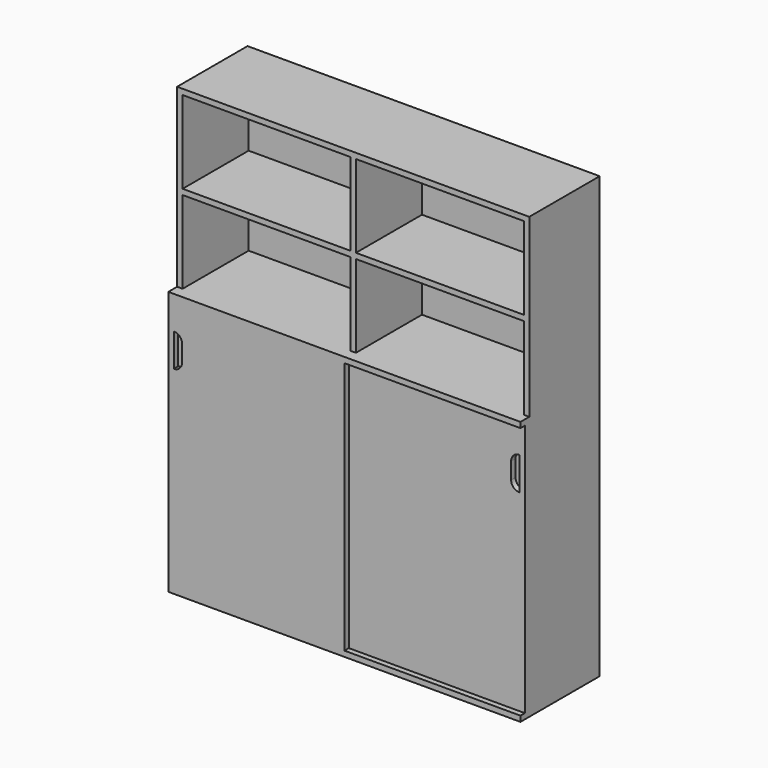
from build123d import *

# Parameters (mm, degrees)
F0_W      = 64
F0_H      = 18
F1_DEPTH  = 48
F2_W      = 64
F2_H      = 1
F3_DEPTH  = 32
F4_W      = 30.5
F4_H      = 15
F5_DEPTH  = 15
F6_W      = 32
F6_H      = 46
F7_DEPTH  = 1
F9_DEPTH  = 1
F11_DEPTH = 1


with BuildPart() as f1:
    # F0 (on Top) → F1 (new body)
    with BuildSketch(Plane.XY):
        with Locations((32, 9)):
            Rectangle(F0_W, F0_H)
    extrude(amount=F1_DEPTH)

    # F2 (on face) → F3 (join)
    with BuildSketch(Plane.XY.offset(48)):
        with Locations((32, 17.5)):
            Rectangle(F2_W, F2_H)
    extrude(amount=F3_DEPTH)

    # F4 (on face) → F5 (join)
    with BuildSketch(Plane.XZ.offset(-17)):
        Polygon((1, 80), (0, 80), (0, 79), (0, 64), (0, 63), (0, 48), (1, 48), (1, 63), (31.5, 63), (31.5, 48), (32.5, 48), (32.5, 63), (63, 63), (63, 48), (64, 48), (64, 79), (64, 80), (63, 80), (32.5, 80), (31.5, 80), align=None)
        with Locations((16.25, 71.5)):
            Rectangle(F4_W, F4_H, mode=Mode.SUBTRACT)
        with Locations((47.75, 71.5)):
            Rectangle(F4_W, F4_H, mode=Mode.SUBTRACT)
    extrude(amount=F5_DEPTH)

    # F6 (on face) → F7 (cut)
    with BuildSketch(Plane.XZ):
        with Locations((48, 24)):
            Rectangle(F6_W, F6_H)
    extrude(amount=-F7_DEPTH, mode=Mode.SUBTRACT)

    # F8 (on face) → F9 (cut)
    with BuildSketch(Plane.XZ.offset(-1)):
        with BuildLine():
            ThreePointArc((63, 42), (61.93934, 41.56066), (61.5, 40.5))
            Line((61.5, 40.5), (61.5, 37.5))
            ThreePointArc((61.5, 37.5), (61.93934, 36.43934), (63, 36))
            Line((63, 36), (63, 42))
        make_face()
    extrude(amount=-F9_DEPTH, mode=Mode.SUBTRACT)

    # F10 (on face) → F11 (cut)
    with BuildSketch(Plane.XZ):
        with BuildLine():
            ThreePointArc((2.5, 40.5), (2.06066, 41.56066), (1, 42))
            Line((1, 42), (1, 36))
            ThreePointArc((1, 36), (2.06066, 36.43934), (2.5, 37.5))
            Line((2.5, 37.5), (2.5, 40.5))
        make_face()
    extrude(amount=-F11_DEPTH, mode=Mode.SUBTRACT)


solid = f1.part
